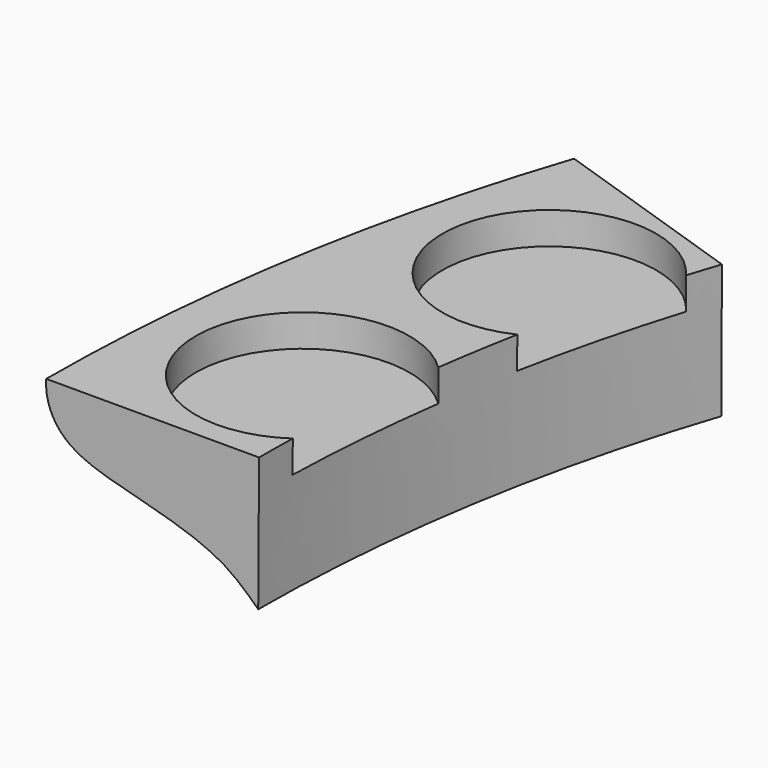
from build123d import *

# Parameters (mm, degrees)
F1_ANGLE = 18.5
F2_R     = 7.9375
F3_DEPTH = 2.38125


with BuildPart() as f1:
    # F0 (on Front) → F1 (revolve)
    with BuildSketch(Plane.XZ):
        with BuildLine():
            Line((24.2297330525, 13.9939050769), (8.419544983, 13.9939050769))
            add(Edge.make_bspline(
                [(8.419544983, 13.9939050769), (8.3193296588, 12.729684062), (9.3964822164, 9.926852923), (14.9424578975, 8.5146570379), (21.1633145653, 6.8517774271), (23.2589200169, 4.9192732328), (24.1671312945, 4.0402704404)],
                knots=[0.4603012927, 0.4603012927, 0.4603012927, 0.4603012927, 0.5552126989, 0.6720441254, 0.8004871988, 0.8904119657, 0.8904119657, 0.8904119657, 0.8904119657], degree=3))
            Line((24.1671312945, 4.0402704404), (24.2297330525, 13.9939050769))
        make_face()
    revolve(axis=Axis((136.7642762608, 0, 8.3261267356), (0, 0, -1)), revolution_arc=F1_ANGLE)

    # F2 (on face) → F3 (cut)
    with BuildSketch(Plane.XY.offset(13.9939050769)):
        with Locations((22.9123420723, 28.597757378)):
            Circle(F2_R)
        with Locations((19.7691471926, 9.6189003033)):
            Circle(F2_R)
    extrude(amount=-F3_DEPTH, mode=Mode.SUBTRACT)


solid = f1.part
